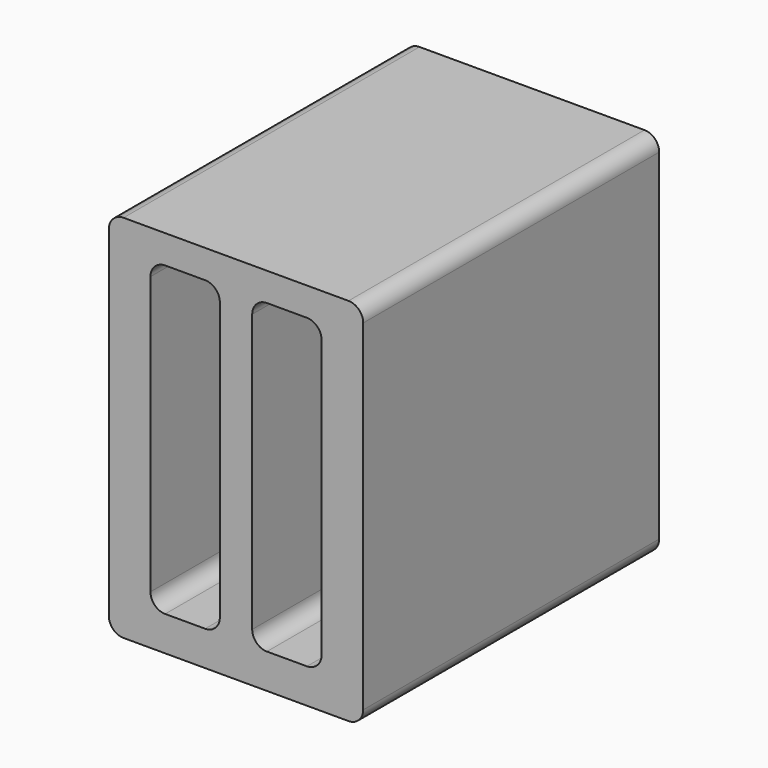
from build123d import *

# Parameters (mm, degrees)
F1_DEPTH = 160
F3_DEPTH = 140
F4_T     = -2.54


with BuildPart() as f1:
    # F0 (on Front) → F1 (new body)
    with BuildSketch(Plane.XZ):
        with BuildLine():
            Line((-103.65, 0), (-6.35, 0))
            ThreePointArc((-6.35, 0), (-1.8598719395, 1.8598719395), (0, 6.35))
            Line((0, 6.35), (0, 153.65))
            ThreePointArc((0, 153.65), (-1.8598719395, 158.1401280605), (-6.35, 160))
            Line((-6.35, 160), (-103.65, 160))
            ThreePointArc((-103.65, 160), (-108.1401280605, 158.1401280605), (-110, 153.65))
            Line((-110, 153.65), (-110, 6.35))
            ThreePointArc((-110, 6.35), (-108.1401280605, 1.8598719395), (-103.65, 0))
        make_face()
    extrude(amount=F1_DEPTH)

    # F2 (on face) → F3 (cut)
    with BuildSketch(Plane.XZ.offset(160)):
        with BuildLine():
            Line((-24.35, 147.7), (-41.65, 147.7))
            ThreePointArc((-41.65, 147.7), (-46.1401280605, 145.8401280605), (-48, 141.35))
            Line((-48, 141.35), (-48, 21.35))
            ThreePointArc((-48, 21.35), (-46.1401280605, 16.8598719395), (-41.65, 15))
            Line((-41.65, 15), (-24.35, 15))
            ThreePointArc((-24.35, 15), (-19.8598719395, 16.8598719395), (-18, 21.35))
            Line((-18, 21.35), (-18, 141.35))
            ThreePointArc((-18, 141.35), (-19.8598719395, 145.8401280605), (-24.35, 147.7))
        make_face()
        with BuildLine():
            Line((-68.35, 147.7), (-85.65, 147.7))
            ThreePointArc((-85.65, 147.7), (-90.1401280605, 145.8401280605), (-92, 141.35))
            Line((-92, 141.35), (-92, 21.35))
            ThreePointArc((-92, 21.35), (-90.1401280605, 16.8598719395), (-85.65, 15))
            Line((-85.65, 15), (-68.35, 15))
            ThreePointArc((-68.35, 15), (-63.8598719395, 16.8598719395), (-62, 21.35))
            Line((-62, 21.35), (-62, 141.35))
            ThreePointArc((-62, 141.35), (-63.8598719395, 145.8401280605), (-68.35, 147.7))
        make_face()
    extrude(amount=-F3_DEPTH, mode=Mode.SUBTRACT)

    # F4
    f4_openings = [f1.faces().sort_by_distance(p)[0] for p in [
        (-55, 0, 80),
    ]]
    offset(amount=F4_T, openings=f4_openings, kind=Kind.INTERSECTION)


solid = f1.part
